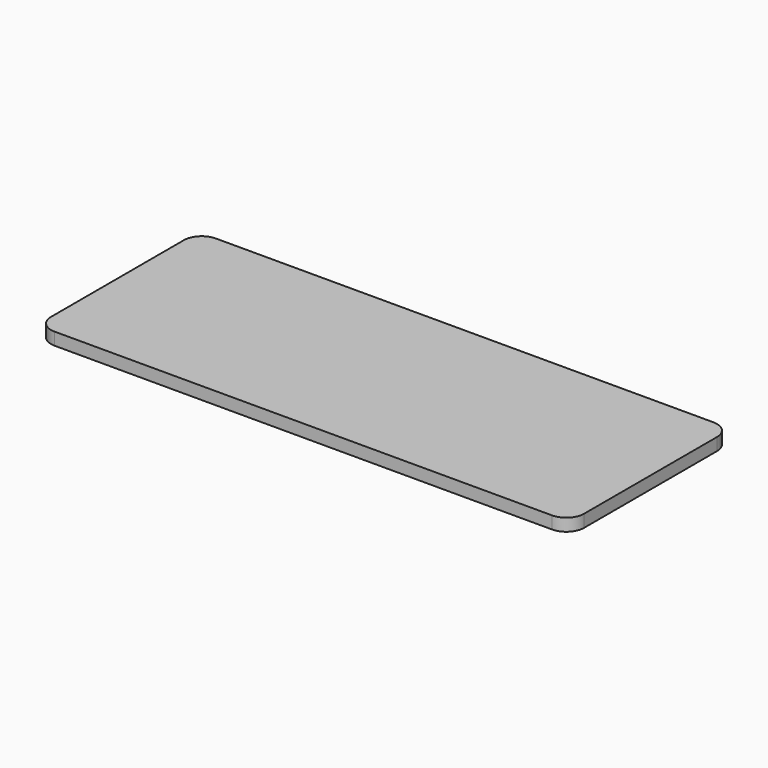
from build123d import *

# Parameters (mm, degrees)
PAD_DEPTH = 1.4


with BuildPart() as part:
    # Sketch → Pad (new body)
    with BuildSketch(Plane.XY):
        with BuildLine():
            Line((-30, 9.35), (-30, -9.35))
            ThreePointArc((-30, -9.35), (-29.414214, -10.764214), (-28, -11.35))
            Line((-28, -11.35), (28, -11.35))
            ThreePointArc((28, -11.35), (29.414214, -10.764214), (30, -9.35))
            Line((30, -9.35), (30, 9.35))
            ThreePointArc((30, 9.35), (29.414214, 10.764214), (28, 11.35))
            Line((28, 11.35), (-28, 11.35))
            ThreePointArc((-28, 11.35), (-29.414214, 10.764214), (-30, 9.35))
        make_face()
    extrude(amount=PAD_DEPTH)


solid = part.part
